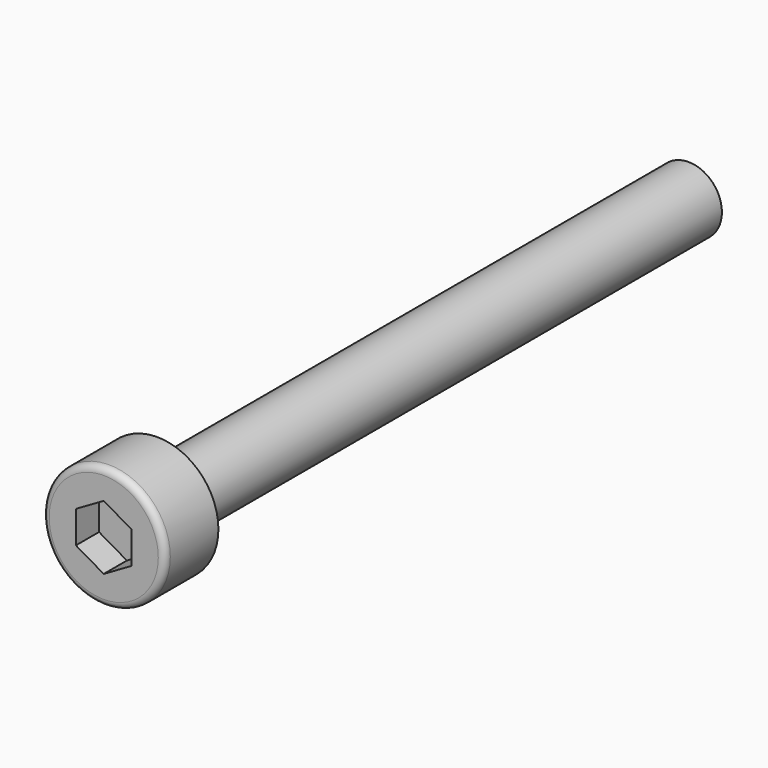
from build123d import *

# Parameters (mm, degrees)
POCKET_DEPTH = 1.3


with BuildPart() as part:
    # Sketch → Revolution (revolve)
    with BuildSketch(Plane.XY):
        with BuildLine():
            Line((1.5, 0), (2.75, 0))
            Line((2.75, 0), (2.75, -2.7))
            ThreePointArc((2.45, -3), (2.662132, -2.912132), (2.75, -2.7))
            Line((2.45, -3), (0, -3))
            Line((0, -3), (0, 30))
            Line((0, 30), (1.195, 30))
            Line((1.195, 30), (1.5, 29.823908))
            Line((1.5, 29.823908), (1.5, 0))
        make_face()
    revolve(axis=Axis((0, 0, 0), (0, 1, 0)))

    # Sketch001 → Pocket (cut)
    with BuildSketch(Plane.XZ.offset(3)):
        Polygon((-1.25, 0.721688), (-1.25, -0.721688), (0, -1.443376), (1.25, -0.721688), (1.25, 0.721688), (0, 1.443376), align=None)
    extrude(amount=-POCKET_DEPTH, mode=Mode.SUBTRACT)


solid = part.part
